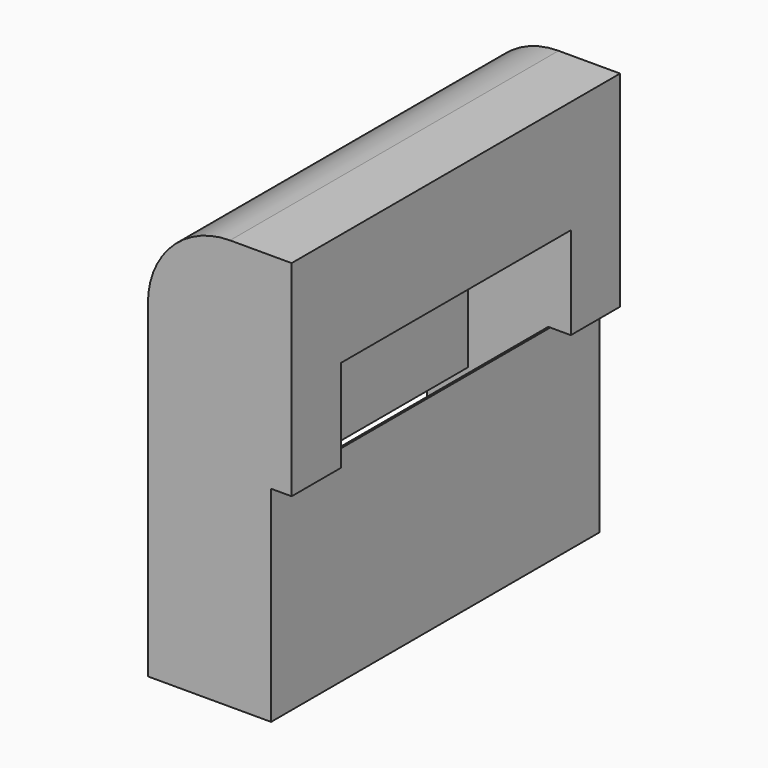
from build123d import *

# Parameters (mm, degrees)
F0_W     = 200
F0_H     = 200
F1_DEPTH = 70
F2_W     = 10
F2_H     = 200
F3_DEPTH = 100
F4_W     = 140
F4_H     = 45
F5_DEPTH = 50
F6_W     = 39
F6_H     = 140
F7_DEPTH = 90
F8_W     = 140
F8_H     = 60
F9_DEPTH = 59
F10_R    = 20
F11_R    = 40


with BuildPart() as f1:
    # F0 (on Right) → F1 (new body)
    with BuildSketch(Plane.YZ):
        Rectangle(F0_W, F0_H)
    extrude(amount=-F1_DEPTH)

    # F2 (on face) → F3 (cut)
    with BuildSketch(Plane(origin=(0, 0, -100), x_dir=(1, 0, 0), z_dir=(0, 0, -1))):
        with Locations((-5, 0)):
            Rectangle(F2_W, F2_H)
    extrude(amount=-F3_DEPTH, mode=Mode.SUBTRACT)

    # F4 (on face) → F5 (cut)
    with BuildSketch(Plane.YZ):
        with Locations((0, 22.5)):
            Rectangle(F4_W, F4_H)
    extrude(amount=-F5_DEPTH, mode=Mode.SUBTRACT)

    # F6 (on face) → F7 (cut)
    with BuildSketch(Plane.XY):
        with Locations((-30.5, 0)):
            Rectangle(F6_W, F6_H)
    extrude(amount=-F7_DEPTH, mode=Mode.SUBTRACT)

    # F8 (on face) → F9 (cut)
    with BuildSketch(Plane(origin=(-70, 0, 0), x_dir=(0, -1, 0), z_dir=(-1, 0, 0))):
        with Locations((0, -60)):
            Rectangle(F8_W, F8_H)
    extrude(amount=-F9_DEPTH, mode=Mode.SUBTRACT)

    # F10
    f10_edges = [f1.edges().sort_by_distance(p)[0] for p in [
        (-11, 0, -90),
    ]]
    fillet(f10_edges, radius=F10_R)

    # F11
    f11_edges = [f1.edges().sort_by_distance(p)[0] for p in [
        (-70, 0, 100),
    ]]
    fillet(f11_edges, radius=F11_R)


solid = f1.part
